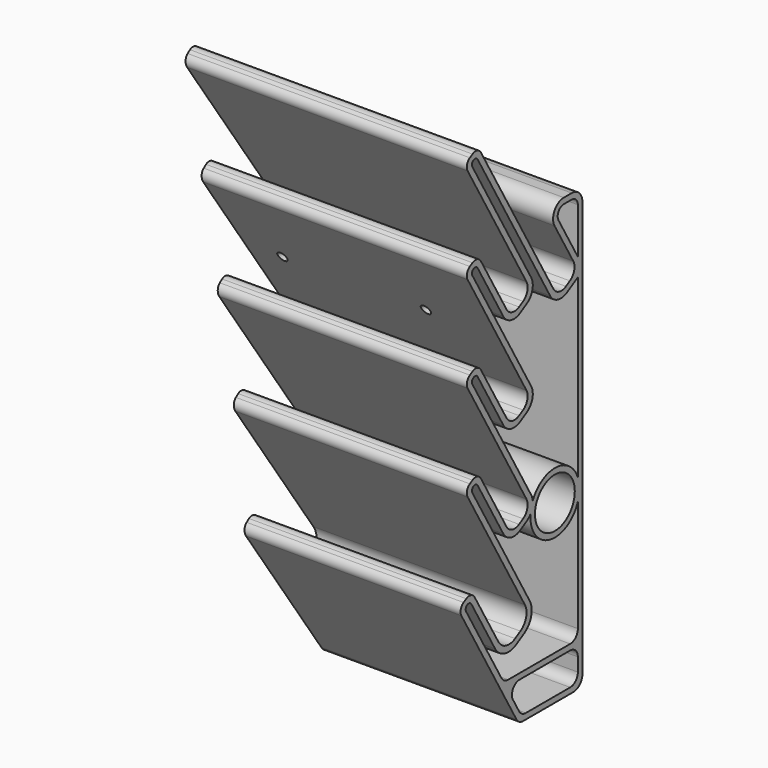
from build123d import *

# Parameters (mm, degrees)
PAD_DEPTH         = 150
FILLET_R          = 4
FILLET001_R       = 1.9
FILLET002_R       = 10
FILLET003_R       = 8
FILLET004_R       = 8
FILLET005_R       = 6
FILLET006_R       = 8
FILLET007_R       = 6
FILLET008_R       = 4
FILLET009_R       = 7
FILLET010_R       = 5
FILLET011_R       = 6
FILLET012_R       = 5
SKETCH003_R       = 16
SKETCH003_R_2     = 13
PAD001_DEPTH      = 150
SKETCH004_R       = 2.5
HOLE_DEPTH        = 77.001
CHAMFER_SIZE      = 1
POCKET_DEPTH      = 78.001
POCKET_DEPTH_BACK = 1.634975


with BuildPart() as part:
    # Sketch001 → Pad (new body)
    with BuildSketch(Plane.YZ):
        Polygon((77, -10), (35.375644, -10), (-4.098076, 58.37049), (4.562178, 63.37049), (26.081416, 26.098076), (43.401924, 36.098076), (0, 111.272413), (8.660254, 116.272413), (30.411543, 78.598076), (43.401924, 86.098076), (0, 161.272413), (8.660254, 166.272413), (30.411543, 128.598076), (43.401924, 136.098076), (0, 211.272413), (8.660254, 216.272413), (30.411543, 178.598076), (43.401924, 186.098076), (0, 261.272413), (8.660254, 266.272413), (61.009619, 175.600654), (74, 183.100654), (52.696152, 220), (77, 220), align=None)
        Polygon((37.107695, -7), (27.292741, 10), (74, 10), (74, -7), align=None, mode=Mode.SUBTRACT)
        Polygon((0, 57.272413), (3.464102, 59.272413), (24.98334, 22), (47.5, 35), (4.098076, 110.174337), (7.562178, 112.174337), (29.313467, 74.5), (47.5, 85), (4.098076, 160.174337), (7.562178, 162.174337), (29.313467, 124.5), (47.5, 135), (4.098076, 210.174337), (7.562178, 212.174337), (29.313467, 174.5), (47.5, 185), (4.098076, 260.174337), (7.562178, 262.174337), (59.911543, 171.502577), (74, 179.636552), (74, 13), (25.56069, 13), align=None, mode=Mode.SUBTRACT)
        Polygon((74, 189.100654), (57.892305, 217), (74, 217), align=None, mode=Mode.SUBTRACT)
    extrude(amount=PAD_DEPTH)

    # Fillet
    fillet_edges = [part.edges().sort_by_distance(p)[0] for p in [
        (75, -4.098076, 58.37049),
        (75, 4.562178, 63.37049),
        (75, 0, 111.272413),
        (75, 8.660254, 116.272413),
        (75, 0, 161.272413),
        (75, 8.660254, 166.272413),
        (75, 0, 211.272413),
        (75, 8.660254, 216.272413),
        (75, 0, 261.272413),
        (75, 8.660254, 266.272413),
    ]]
    fillet(fillet_edges, radius=FILLET_R)

    # Fillet001
    fillet001_edges = [part.edges().sort_by_distance(p)[0] for p in [
        (75, 3.464102, 59.272413),
        (75, 0, 57.272413),
        (75, 7.562178, 112.174337),
        (75, 4.098076, 110.174337),
        (75, 4.098076, 160.174337),
        (75, 7.562178, 162.174337),
        (75, 7.562178, 212.174337),
        (75, 4.098076, 210.174337),
        (75, 7.562178, 262.174337),
        (75, 4.098076, 260.174337),
    ]]
    fillet(fillet001_edges, radius=FILLET001_R)

    # Fillet002
    fillet002_edges = [part.edges().sort_by_distance(p)[0] for p in [
        (75, 47.5, 35),
        (75, 24.98334, 22),
    ]]
    fillet(fillet002_edges, radius=FILLET002_R)

    # Fillet003
    fillet003_edges = [part.edges().sort_by_distance(p)[0] for p in [
        (75, 43.401924, 36.098076),
        (75, 26.081416, 26.098076),
    ]]
    fillet(fillet003_edges, radius=FILLET003_R)

    # Fillet004
    fillet004_edges = [part.edges().sort_by_distance(p)[0] for p in [
        (75, 47.5, 85),
        (75, 29.313467, 74.5),
        (75, 29.313467, 124.5),
        (75, 47.5, 135),
        (75, 29.313467, 174.5),
        (75, 47.5, 185),
    ]]
    fillet(fillet004_edges, radius=FILLET004_R)

    # Fillet005
    fillet005_edges = [part.edges().sort_by_distance(p)[0] for p in [
        (75, 30.411543, 128.598076),
        (75, 30.411543, 78.598076),
        (75, 43.401924, 86.098076),
        (75, 43.401924, 136.098076),
        (75, 30.411543, 178.598076),
        (75, 43.401924, 186.098076),
    ]]
    fillet(fillet005_edges, radius=FILLET005_R)

    # Fillet006
    fillet006_edges = [part.edges().sort_by_distance(p)[0] for p in [
        (75, 59.911543, 171.502577),
    ]]
    fillet(fillet006_edges, radius=FILLET006_R)

    # Fillet007
    fillet007_edges = [part.edges().sort_by_distance(p)[0] for p in [
        (75, 61.009619, 175.600654),
        (75, 74, 183.100654),
    ]]
    fillet(fillet007_edges, radius=FILLET007_R)

    # Fillet008
    fillet008_edges = [part.edges().sort_by_distance(p)[0] for p in [
        (75, 57.892305, 217),
        (75, 74, 217),
    ]]
    fillet(fillet008_edges, radius=FILLET008_R)

    # Fillet009
    fillet009_edges = [part.edges().sort_by_distance(p)[0] for p in [
        (75, 52.696152, 220),
        (75, 77, 220),
    ]]
    fillet(fillet009_edges, radius=FILLET009_R)

    # Fillet010
    fillet010_edges = [part.edges().sort_by_distance(p)[0] for p in [
        (75, 74, 13),
        (75, 25.56069, 13),
        (75, 74, 10),
        (75, 27.292741, 10),
        (75, 37.107695, -7),
        (75, 74, -7),
    ]]
    fillet(fillet010_edges, radius=FILLET010_R)

    # Fillet011
    fillet011_edges = [part.edges().sort_by_distance(p)[0] for p in [
        (75, 77, -10),
    ]]
    fillet(fillet011_edges, radius=FILLET011_R)

    # Fillet012
    fillet012_edges = [part.edges().sort_by_distance(p)[0] for p in [
        (75, 35.375644, -10),
    ]]
    fillet(fillet012_edges, radius=FILLET012_R)

    # Sketch003 → Pad001 (join)
    with BuildSketch(Plane.YZ):
        with Locations((59, 82)):
            Circle(SKETCH003_R)
        with Locations((59, 82)):
            Circle(SKETCH003_R_2, mode=Mode.SUBTRACT)
    extrude(amount=PAD001_DEPTH)

    # Sketch004 → Hole (cut, through all)
    with BuildSketch(Plane.XZ):
        with Locations((37.5, 173.754105)):
            Circle(SKETCH004_R)
        with Locations((112.5, 173.754105)):
            Circle(SKETCH004_R)
    extrude(amount=-HOLE_DEPTH, mode=Mode.SUBTRACT)

    # Chamfer
    chamfer_edges = [part.edges().sort_by_distance(p)[0] for p in [
        (110, 74, 173.754105),
        (35, 74, 173.754105),
    ]]
    chamfer(chamfer_edges, length=CHAMFER_SIZE)

    # Sketch002 → Pocket (cut, two sides)
    with BuildSketch(Plane.XZ.offset(1)) as pocket_sk:
        Polygon((0, -19.218618), (0, 278.271382), (50, -19.218618), align=None)
    extrude(amount=-POCKET_DEPTH, mode=Mode.SUBTRACT)
    extrude(pocket_sk.sketch, amount=POCKET_DEPTH_BACK, mode=Mode.SUBTRACT)


solid = part.part
